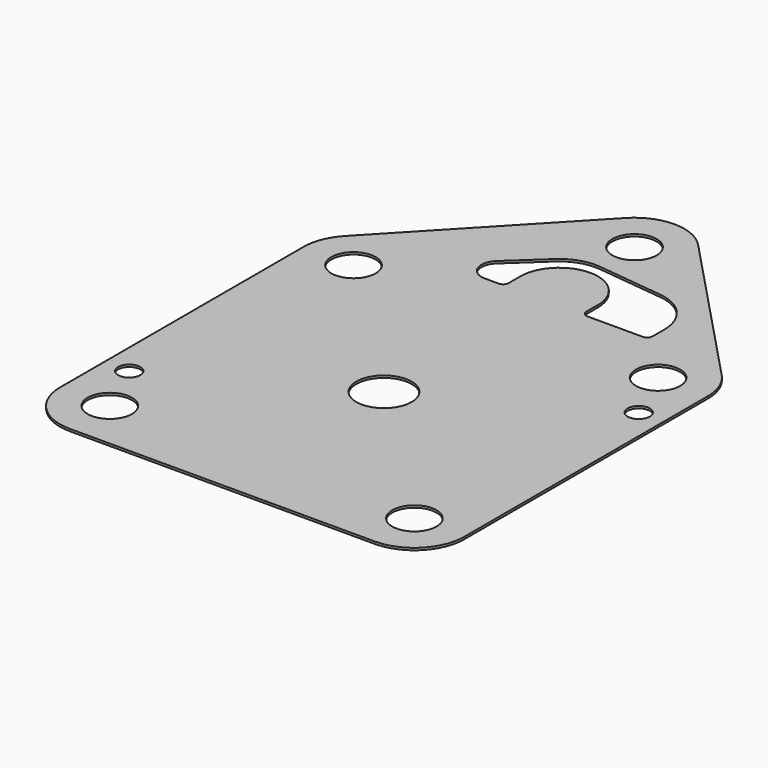
from build123d import *

# Parameters (mm, degrees)
F0_R     = 2
F0_R_2   = 2.5
F1_DEPTH = 0.2
F2_R     = 1
F3_DEPTH = 0.201


with BuildPart() as f1:
    # F0 (on Top) → F1 (new body)
    with BuildSketch(Plane.XY):
        with BuildLine():
            ThreePointArc((3.26783, 31.367438), (0, 32.773688), (-3.26783, 31.367438))
            Line((-3.26783, 31.367438), (-17.01783, 16.84375))
            ThreePointArc((-17.01783, 16.84375), (-17.930624, 15.415048), (-18.25, 13.75))
            Line((-18.25, 13.75), (-18.25, -13.75))
            ThreePointArc((-18.25, -13.75), (-16.931981, -16.931981), (-13.75, -18.25))
            Line((-13.75, -18.25), (13.75, -18.25))
            ThreePointArc((13.75, -18.25), (16.931981, -16.931981), (18.25, -13.75))
            Line((18.25, -13.75), (18.25, 13.75))
            ThreePointArc((18.25, 13.75), (17.930624, 15.415048), (17.01783, 16.84375))
            Line((17.01783, 16.84375), (3.26783, 31.367438))
        make_face()
        with Locations((-13.75, -13.75)):
            Circle(F0_R, mode=Mode.SUBTRACT)
        with Locations((13.75, -13.75)):
            Circle(F0_R, mode=Mode.SUBTRACT)
        Circle(F0_R_2, mode=Mode.SUBTRACT)
        with Locations((-13.75, 13.75)):
            Circle(F0_R, mode=Mode.SUBTRACT)
        with Locations((13.75, 13.75)):
            Circle(F0_R, mode=Mode.SUBTRACT)
        with Locations((0, 28.273688)):
            Circle(F0_R, mode=Mode.SUBTRACT)
    extrude(amount=F1_DEPTH)

    # F2 (on face) → F3 (cut, through all)
    with BuildSketch(Plane.XY.offset(0.2)):
        with BuildLine():
            ThreePointArc((-3.5, 19.773688), (0, 23.273688), (3.5, 19.773688))
            Line((3.5, 19.773688), (3.5, 18.45))
            ThreePointArc((3.5, 18.45), (3.646447, 18.096447), (4, 17.95))
            Line((4, 17.95), (9, 17.95))
            ThreePointArc((9, 17.95), (9.353553, 18.096447), (9.5, 18.45))
            Line((9.5, 18.45), (9.5, 19.773688))
            ThreePointArc((9.5, 19.773688), (8.482629, 22.439006), (5.948038, 23.748516))
            Line((5.948038, 23.748516), (-0.051962, 24.424829))
            ThreePointArc((-0.051962, 24.424829), (-1.75122, 24.24927), (-3.222263, 23.380748))
            Line((-3.222263, 23.380748), (-6.270849, 20.549031))
            ThreePointArc((-6.270849, 20.549031), (-6.646164, 18.901614), (-5.25, 17.95))
            Line((-5.25, 17.95), (-4, 17.95))
            ThreePointArc((-4, 17.95), (-3.646447, 18.096447), (-3.5, 18.45))
            Line((-3.5, 18.45), (-3.5, 19.773688))
        make_face()
        with Locations((-16, -8.75)):
            Circle(F2_R)
        with Locations((16, 8.75)):
            Circle(F2_R)
    extrude(amount=-F3_DEPTH, mode=Mode.SUBTRACT)


solid = f1.part
